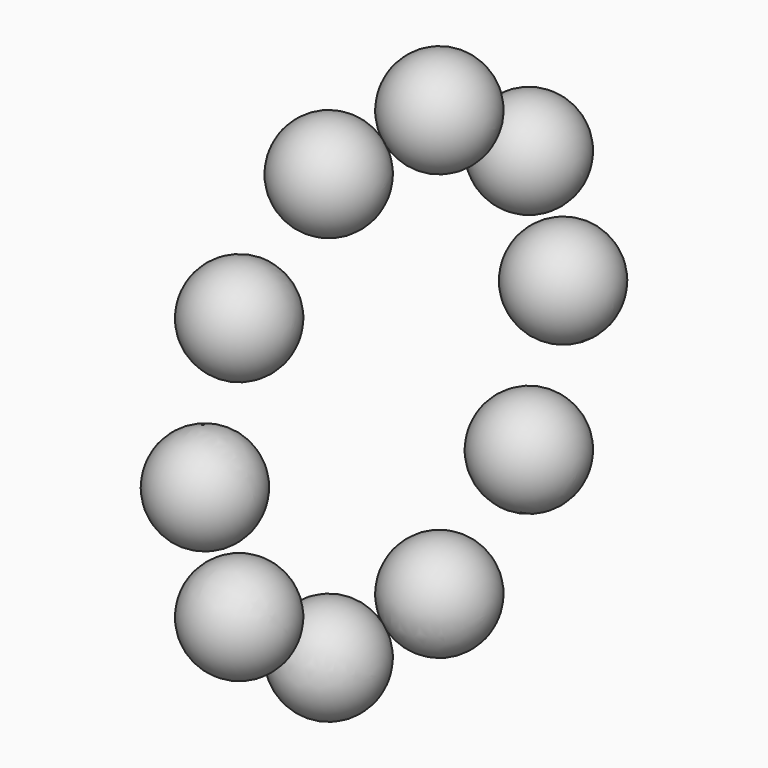
from build123d import *

# Parameters (mm, degrees)
F3_COUNT = 10


with BuildPart() as f1:
    # F0 (on Front) → F1 (revolve)
    with BuildSketch(Plane.XZ):
        with BuildLine():
            Line((-5.08, 0), (5.08, 0))
            ThreePointArc((5.08, 0), (0, 5.08), (-5.08, 0))
        make_face()
    revolve(axis=Axis((0, 0, 0), (1, 0, 0)))


with BuildPart() as f3_1:
    # F3: instance of F1
    add(f1.part.rotate(Axis((3.49799, 22.6568, 0), (1, 0, 0)), 1 * 360 / F3_COUNT))


with BuildPart() as f3_2:
    # F3: instance of F1
    add(f1.part.rotate(Axis((3.49799, 22.6568, 0), (1, 0, 0)), 2 * 360 / F3_COUNT))


with BuildPart() as f3_3:
    # F3: instance of F1
    add(f1.part.rotate(Axis((3.49799, 22.6568, 0), (1, 0, 0)), 3 * 360 / F3_COUNT))


with BuildPart() as f3_4:
    # F3: instance of F1
    add(f1.part.rotate(Axis((3.49799, 22.6568, 0), (1, 0, 0)), 4 * 360 / F3_COUNT))


with BuildPart() as f3_5:
    # F3: instance of F1
    add(f1.part.rotate(Axis((3.49799, 22.6568, 0), (1, 0, 0)), 5 * 360 / F3_COUNT))


with BuildPart() as f3_6:
    # F3: instance of F1
    add(f1.part.rotate(Axis((3.49799, 22.6568, 0), (1, 0, 0)), 6 * 360 / F3_COUNT))


with BuildPart() as f3_7:
    # F3: instance of F1
    add(f1.part.rotate(Axis((3.49799, 22.6568, 0), (1, 0, 0)), 7 * 360 / F3_COUNT))


with BuildPart() as f3_8:
    # F3: instance of F1
    add(f1.part.rotate(Axis((3.49799, 22.6568, 0), (1, 0, 0)), 8 * 360 / F3_COUNT))


with BuildPart() as f3_9:
    # F3: instance of F1
    add(f1.part.rotate(Axis((3.49799, 22.6568, 0), (1, 0, 0)), 9 * 360 / F3_COUNT))


solid = Compound([f1.part, f3_1.part, f3_2.part, f3_3.part, f3_4.part, f3_5.part, f3_6.part, f3_7.part, f3_8.part, f3_9.part])
